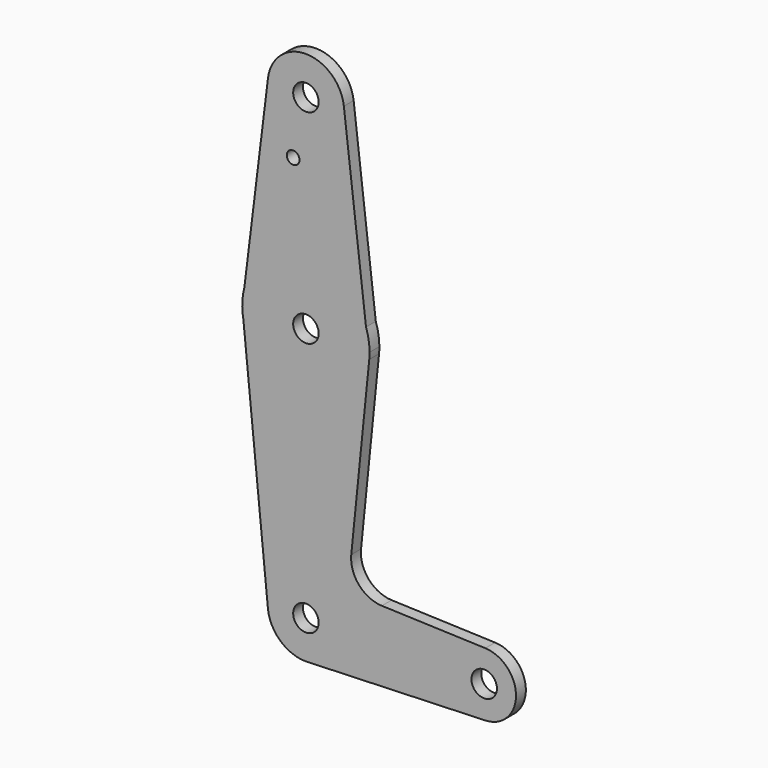
from build123d import *

# Parameters (mm, degrees)
F0_R     = 3.175
F0_R_2   = 1.5875
F1_DEPTH = 3.048


with BuildPart() as f1:
    # F0 (on Front) → F1 (new body)
    with BuildSketch(Plane.XZ):
        with BuildLine():
            Line((-15.7339852052, 17.7739219671), (-14.9240088148, 10.9313467519))
            ThreePointArc((-14.9240088148, 10.9313467519), (-14.8634237847, 11.7301369198), (-14.8432116184, 12.5309663314))
            ThreePointArc((-14.8432116184, 12.5309663314), (-15.0674892819, 15.1900103974), (-15.7339852052, 17.7739219671))
        make_face()
        with BuildLine():
            Line((-19.4109884718, -33.3718535762), (-14.9240088148, 10.9313467519))
            ThreePointArc((-14.9240088148, 10.9313467519), (-30.0535217541, -3.3301122065), (-46.3232008808, 9.6155015108))
            Line((-46.3232008808, 9.6155015108), (-40.1963361202, -51.9128455822))
            ThreePointArc((-40.1963361202, -51.9128455822), (-31.190699248, -41.4557597611), (-21.1932116184, -50.9690336686))
            ThreePointArc((-21.1932116184, -50.9690336686), (-23.6863464367, -57.3938680685), (-29.8606125771, -60.4553474356))
            Line((-29.8606125771, -60.4553474356), (14.0127211275, -58.9015605701))
            ThreePointArc((14.0127211275, -58.9015605701), (5.7942884158, -50.9682969403), (14.0141936561, -43.0365590541))
            Line((14.0141936561, -43.0365590541), (-11.7841088307, -42.1181096356))
            ThreePointArc((-11.7841088307, -42.1181096356), (-17.493237807, -39.3980538381), (-19.4109884718, -33.3718535762))
        make_face()
        with BuildLine():
            ThreePointArc((-46.3232008808, 9.6155015108), (-30.0535217541, -3.3301122065), (-14.9240088148, 10.9313467519))
            Line((-14.9240088148, 10.9313467519), (-15.7339852052, 17.7739219671))
            ThreePointArc((-15.7339852052, 17.7739219671), (-31.3363467105, 28.3939274045), (-46.0649886998, 16.5920078496))
            Line((-46.0649886998, 16.5920078496), (-46.591699633, 12.3118698926))
            Line((-46.591699633, 12.3118698926), (-46.3232008808, 9.6155015108))
        make_face()
        with Locations((-30.7182116184, 12.5309663314)):
            Circle(F0_R, mode=Mode.SUBTRACT)
        with BuildLine():
            ThreePointArc((-46.591699633, 12.3118698926), (-46.5150857881, 10.9579464755), (-46.3232008808, 9.6155015108))
            Line((-46.3232008808, 9.6155015108), (-46.591699633, 12.3118698926))
        make_face()
        with BuildLine():
            ThreePointArc((-46.0649886998, 16.5920078496), (-31.3363467105, 28.3939274045), (-15.7339852052, 17.7739219671))
            Line((-15.7339852052, 17.7739219671), (-21.2592513872, 64.4506521549))
            ThreePointArc((-21.2592513872, 64.4506521549), (-21.209735894, 63.8917821644), (-21.1932116184, 63.3309663314))
            ThreePointArc((-21.1932116184, 63.3309663314), (-31.2104781903, 53.8186953816), (-40.1923294393, 64.3141837616))
            Line((-40.1923294393, 64.3141837616), (-46.0649886998, 16.5920078496))
        make_face()
        with Locations((-33.9019484818, 49.0561663314)):
            Circle(F0_R_2, mode=Mode.SUBTRACT)
        with BuildLine():
            ThreePointArc((-46.0649886998, 16.5920078496), (-46.4743575114, 14.4699071764), (-46.591699633, 12.3118698926))
            Line((-46.591699633, 12.3118698926), (-46.0649886998, 16.5920078496))
        make_face()
        with BuildLine():
            ThreePointArc((-21.1932116184, -50.9690336686), (-31.190699248, -41.4557597611), (-40.1963361202, -51.9128455822))
            ThreePointArc((-40.1963361202, -51.9128455822), (-37.1790549254, -57.9678284765), (-30.9025826575, -60.4922491088))
            Line((-30.9025826575, -60.4922491088), (-29.8606125771, -60.4553474356))
            ThreePointArc((-29.8606125771, -60.4553474356), (-23.6863464367, -57.3938680685), (-21.1932116184, -50.9690336686))
        make_face()
        with Locations((-30.7182116184, -50.9690336686)):
            Circle(F0_R, mode=Mode.SUBTRACT)
        with BuildLine():
            ThreePointArc((-21.1932116184, 63.3309663314), (-21.209735894, 63.8917821644), (-21.2592513872, 64.4506521549))
            ThreePointArc((-21.2592513872, 64.4506521549), (-30.7868654145, 72.8557189085), (-40.1923294393, 64.3141837616))
            ThreePointArc((-40.1923294393, 64.3141837616), (-31.2104781903, 53.8186953816), (-21.1932116184, 63.3309663314))
        make_face()
        with Locations((-30.7182116184, 63.3309663314)):
            Circle(F0_R, mode=Mode.SUBTRACT)
        with BuildLine():
            Line((-29.8606125771, -60.4553474356), (-30.9025826575, -60.4922491088))
            ThreePointArc((-30.9025826575, -60.4922491088), (-30.3810923233, -60.4880659504), (-29.8606125771, -60.4553474356))
        make_face()
        with BuildLine():
            ThreePointArc((21.6692883816, -50.9690336686), (19.4434211655, -45.4571231839), (14.0141936561, -43.0365590541))
            ThreePointArc((14.0141936561, -43.0365590541), (5.7942884158, -50.9682969403), (14.0127211275, -58.9015605701))
            ThreePointArc((14.0127211275, -58.9015605701), (19.4429095465, -56.4814742615), (21.6692883816, -50.9690336686))
        make_face()
        with Locations((13.7317883816, -50.9690336686)):
            Circle(F0_R, mode=Mode.SUBTRACT)
    extrude(amount=F1_DEPTH)


solid = f1.part
